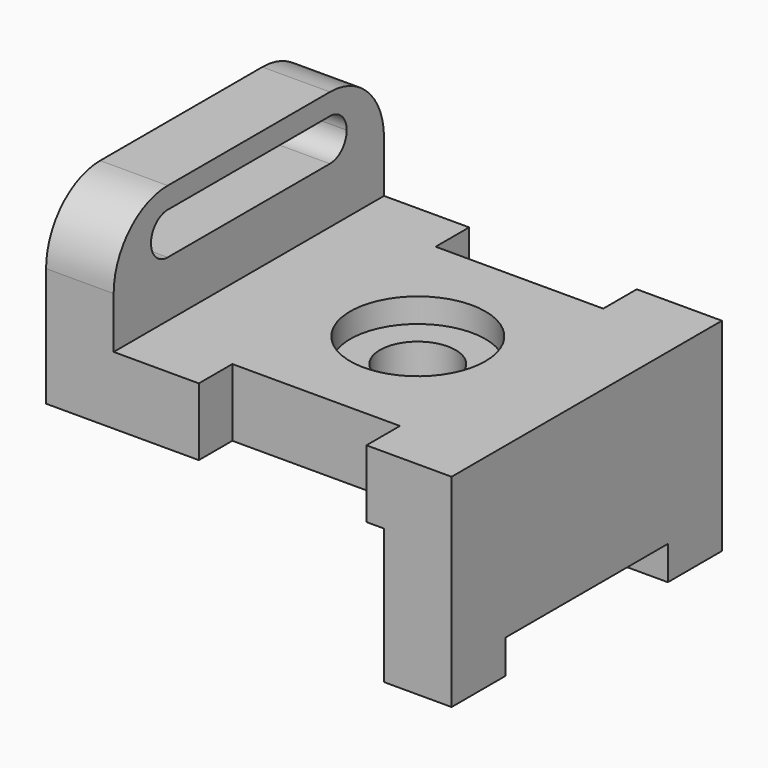
from build123d import *

# Parameters (mm, degrees)
F1_DEPTH  = 76.2
F2_DEPTH  = 12.7
F3_W      = 31.496
F3_H      = 7.874
F4_DEPTH  = 38.101
F6_DEPTH  = 63.501
F7_W      = 31.496
F7_H      = 25.4
F8_DEPTH  = 55.627
F9_W      = 28.702
F9_H      = 25.4
F10_DEPTH = 63.501
F11_R     = 7.112
F12_DEPTH = 38.101
F11_R_2   = 12.7
F13_DEPTH = 4.572


with BuildPart() as f1:
    # F0 (on Right) → F1 (new body)
    with BuildSketch(Plane.YZ):
        Polygon((-31.75, 38.1), (-31.75, 0), (-19.05, 0), (-19.05, 6.35), (19.05, 6.35), (19.05, 0), (31.75, 0), (31.75, 38.1), align=None)
    extrude(amount=F1_DEPTH)

    # F0 (on Right) → F2 (join)
    with BuildSketch(Plane.YZ):
        with BuildLine():
            Line((-31.75, 47.752), (-31.75, 38.1))
            Line((-31.75, 38.1), (31.75, 38.1))
            Line((31.75, 38.1), (31.75, 47.752))
            ThreePointArc((31.75, 47.752), (28.0302561211, 56.7322561211), (19.05, 60.452))
            Line((19.05, 60.452), (-19.05, 60.452))
            ThreePointArc((-19.05, 60.452), (-28.0302561211, 56.7322561211), (-31.75, 47.752))
        make_face()
        with BuildLine():
            ThreePointArc((-19.05, 48.5814124708), (-22.987, 52.5184124708), (-19.05, 56.4554124708))
            Line((-19.05, 56.4554124708), (19.05, 56.4554124708))
            ThreePointArc((19.05, 56.4554124708), (21.8338793975, 55.3022918683), (22.987, 52.5184124708))
            ThreePointArc((22.987, 52.5184124708), (21.8338793975, 49.7345330733), (19.05, 48.5814124708))
            Line((19.05, 48.5814124708), (-19.05, 48.5814124708))
        make_face(mode=Mode.SUBTRACT)
    extrude(amount=F2_DEPTH)

    # F3 (on face) → F4 (cut, through all)
    with BuildSketch(Plane.XY.offset(38.1)):
        with Locations((44.45, 27.813)):
            Rectangle(F3_W, F3_H)
        with Locations((44.45, -27.813)):
            Rectangle(F3_W, F3_H)
    extrude(amount=-F4_DEPTH, mode=Mode.SUBTRACT)

    # F5 (on face) → F6 (cut, through all)
    with BuildSketch(Plane.XZ.offset(31.75)):
        Polygon((60.198, 0), (63.5, 0), (63.5, 25.4), (62.9462525249, 25.4), (60.198, 25.4), align=None)
    extrude(amount=-F6_DEPTH, mode=Mode.SUBTRACT)

    # F7 (on face) → F8 (cut, through all)
    with BuildSketch(Plane.XZ.offset(23.876)):
        with Locations((44.45, 12.7)):
            Rectangle(F7_W, F7_H)
    extrude(amount=-F8_DEPTH, mode=Mode.SUBTRACT)

    # F9 (on face) → F10 (cut, through all)
    with BuildSketch(Plane.XZ.offset(31.75)):
        with Locations((14.351, 12.7)):
            Rectangle(F9_W, F9_H)
    extrude(amount=-F10_DEPTH, mode=Mode.SUBTRACT)

    # F11 (on face) → F12 (cut, through all)
    with BuildSketch(Plane.XY.offset(38.1)):
        with Locations((44.45, 0)):
            Circle(F11_R)
    extrude(amount=-F12_DEPTH, mode=Mode.SUBTRACT)

    # F11 (on face) → F13 (cut)
    with BuildSketch(Plane.XY.offset(38.1)):
        with Locations((44.45, 0)):
            Circle(F11_R_2)
        with Locations((44.45, 0)):
            Circle(F11_R, mode=Mode.SUBTRACT)
    extrude(amount=-F13_DEPTH, mode=Mode.SUBTRACT)


solid = f1.part
